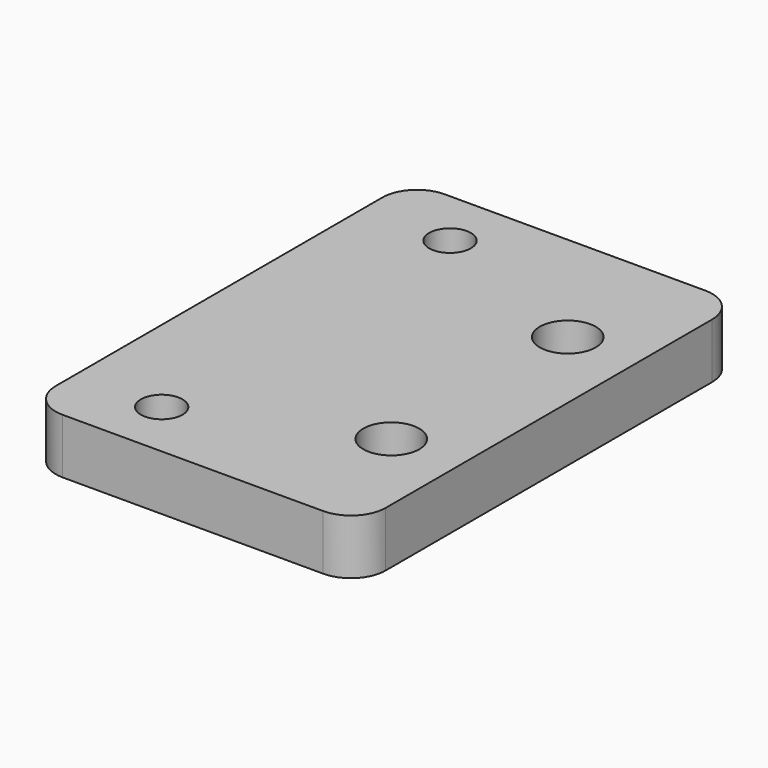
from build123d import *

# Parameters (mm, degrees)
SKETCH_R   = 2.4
SKETCH_R_2 = 3.225
PAD_DEPTH  = 6.35


with BuildPart() as part:
    # Sketch → Pad (new body)
    with BuildSketch(Plane.XY):
        with BuildLine():
            ThreePointArc((-6, 27.5), (-8.828427, 26.328427), (-10, 23.5))
            Line((-10, -23.5), (-10, 23.5))
            ThreePointArc((-10, -23.5), (-8.828427, -26.328427), (-6, -27.5))
            Line((24, -27.5), (-6, -27.5))
            ThreePointArc((24, -27.5), (26.828427, -26.328427), (28, -23.5))
            Line((28, 23.5), (28, -23.5))
            ThreePointArc((28, 23.5), (26.828427, 26.328427), (24, 27.5))
            Line((-6, 27.5), (24, 27.5))
        make_face()
        with Locations((0, 20.75)):
            Circle(SKETCH_R, mode=Mode.SUBTRACT)
        with Locations((0, -20.75)):
            Circle(SKETCH_R, mode=Mode.SUBTRACT)
        with Locations((20, 12.7)):
            Circle(SKETCH_R_2, mode=Mode.SUBTRACT)
        with Locations((20, -12.7)):
            Circle(SKETCH_R_2, mode=Mode.SUBTRACT)
    extrude(amount=PAD_DEPTH)


solid = part.part
